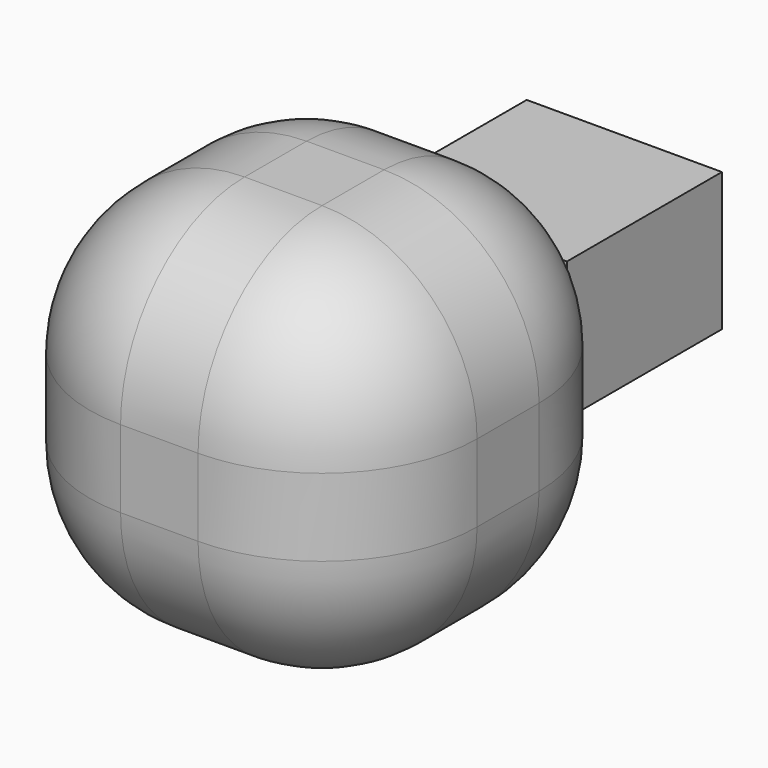
from build123d import *

# Parameters (mm, degrees)
F0_W     = 50
F0_H     = 50
F1_DEPTH = 50
F2_R     = 20
F3_W     = 25.187926
F3_H     = 17.857752
F4_DEPTH = 25


with BuildPart() as f1:
    # F0 (on Front) → F1 (new body)
    with BuildSketch(Plane.XZ):
        Rectangle(F0_W, F0_H)
    extrude(amount=F1_DEPTH)

    # F2
    f2_edges = [f1.edges().sort_by_distance(p)[0] for p in [
        (25, 0, 0),
        (-25, 0, 0),
        (25, -50, 0),
        (25, -25, 25),
        (-25, -25, 25),
        (0, 0, 25),
        (0, -50, 25),
        (-25, -50, 0),
        (0, -50, -25),
        (-25, -25, -25),
        (0, 0, -25),
        (25, -25, -25),
    ]]
    fillet(f2_edges, radius=F2_R)

    # F3 (on Front) → F4 (join)
    with BuildSketch(Plane.XZ):
        Rectangle(F3_W, F3_H)
    extrude(amount=-F4_DEPTH)


solid = f1.part
